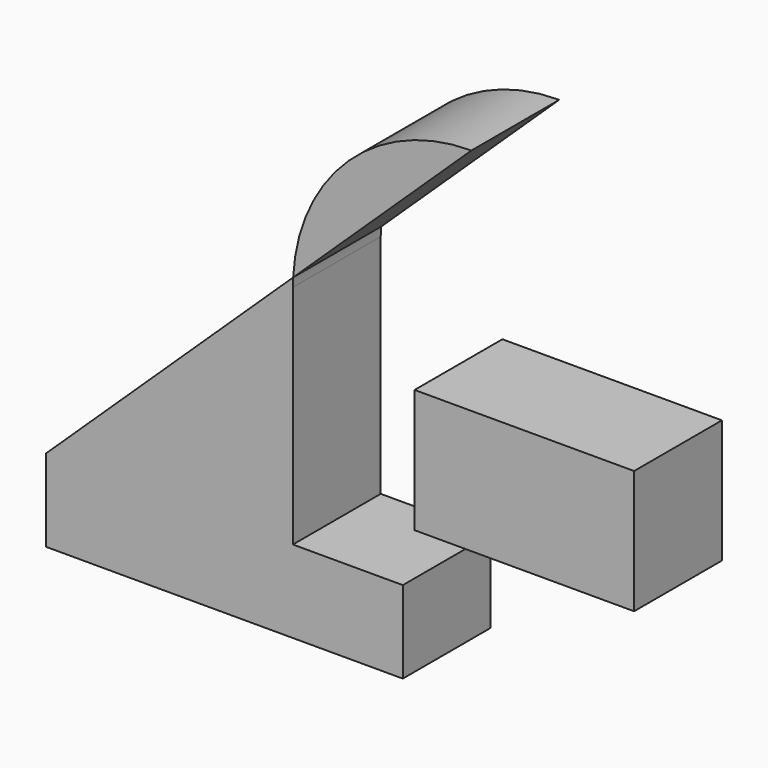
from build123d import *

# Parameters (mm, degrees)
F0_W     = 50.8
F0_H     = 28.575
F1_DEPTH = 25.4


with BuildPart() as f1:
    # F0 (on Front) → F1 (new body)
    with BuildSketch(Plane.XZ):
        with BuildLine():
            ThreePointArc((57.15, 103.228087), (28.67083, 91.8395), (15.896979, 63.954168))
            add(Edge.make_bspline(
                [(15.896979, 63.954168), (29.647986, 77.045475), (43.398993, 90.136781), (57.15, 103.228087)],
                knots=[78.937757, 78.937757, 78.937757, 78.937757, 135.896097, 135.896097, 135.896097, 135.896097], degree=3))
        make_face()
        Polygon((-41.275, -9.525), (41.275, -9.525), (41.275, 9.525), (15.847113, 9.525), (-41.275, 9.525), align=None)
        with BuildLine():
            add(Edge.make_bspline(
                [(-41.275, 9.525), (-22.217674, 27.668056), (-3.160348, 45.811112), (15.896979, 63.954168)],
                knots=[0, 0, 0, 0, 78.937757, 78.937757, 78.937757, 78.937757], degree=3))
            Line((-41.275, 9.525), (15.847113, 9.525))
            Line((15.847113, 9.525), (15.847113, 61.9252))
            ThreePointArc((15.847113, 61.9252), (15.859581, 62.939991), (15.896979, 63.954168))
        make_face()
        with Locations((69.396536, 35.886836)):
            Rectangle(F0_W, F0_H)
    extrude(amount=F1_DEPTH)


solid = f1.part
